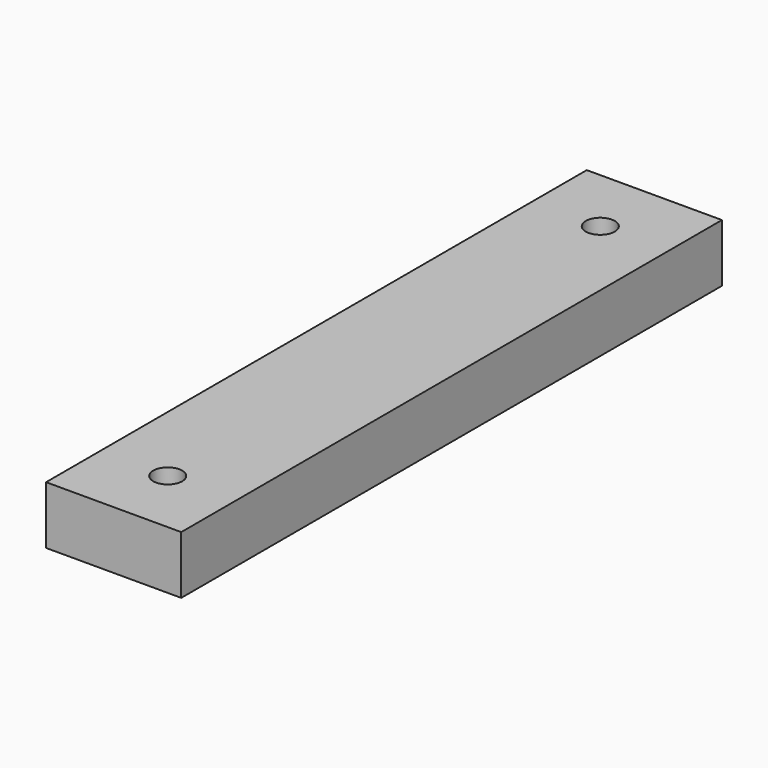
from build123d import *

# Parameters (mm, degrees)
F0_W     = 88.9
F0_H     = 38.1
F1_DEPTH = 222.25
F2_R     = 9.525
F3_DEPTH = 12.7
F4_R     = 9.525
F5_DEPTH = 12.7


with BuildPart() as f1:
    # F0 (on Front) → F1 (new body, symmetric)
    with BuildSketch(Plane.XZ):
        Rectangle(F0_W, F0_H)
    extrude(amount=F1_DEPTH, both=True)

    # F2 (on face) → F3 (cut)
    with BuildSketch(Plane.XY.offset(19.05)):
        with Locations((0, 177.8)):
            Circle(F2_R)
        with Locations((0, -177.8)):
            Circle(F2_R)
    extrude(amount=-F3_DEPTH, mode=Mode.SUBTRACT)

    # F4 (on face) → F5 (cut)
    with BuildSketch(Plane(origin=(0, 0, -19.05), x_dir=(1, 0, 0), z_dir=(0, 0, -1))):
        with Locations((0, -177.8)):
            Circle(F4_R)
        with Locations((0, 177.8)):
            Circle(F4_R)
    extrude(amount=-F5_DEPTH, mode=Mode.SUBTRACT)


solid = f1.part
